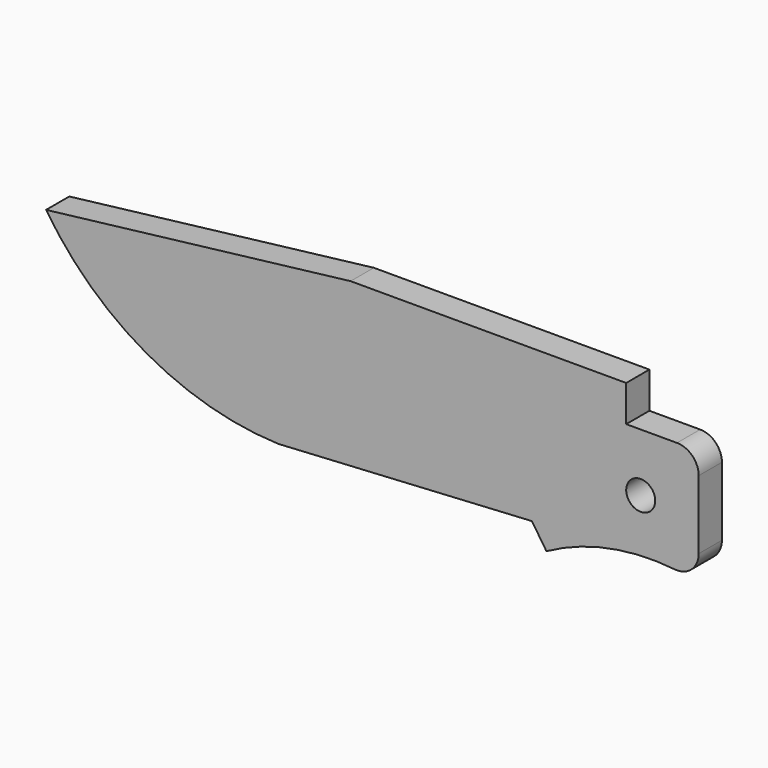
from build123d import *

# Parameters (mm, degrees)
F0_R     = 2
F1_DEPTH = 4
F2_R     = 3


with BuildPart() as f1:
    # F0 (on Front) → F1 (new body)
    with BuildSketch(Plane.XZ):
        with BuildLine():
            Line((8, 8), (-2, 8))
            Line((-2, 8), (-2, 13))
            Line((-2, 13), (-40, 13))
            Line((-40, 13), (-82, 8))
            ThreePointArc((-82, 8), (-68.187197, -4.88835), (-50, -10))
            Line((-50, -10), (-15, -8))
            Line((-15, -8), (-13, -11))
            ThreePointArc((-13, -11), (-2.774014, -7.581904), (8, -8))
            Line((8, -8), (8, 8))
        make_face()
        Circle(F0_R, mode=Mode.SUBTRACT)
    extrude(amount=F1_DEPTH)

    # F2
    f2_edges = [f1.edges().sort_by_distance(p)[0] for p in [
        (8, -2, 8),
        (8, -2, -8),
    ]]
    fillet(f2_edges, radius=F2_R)


solid = f1.part
